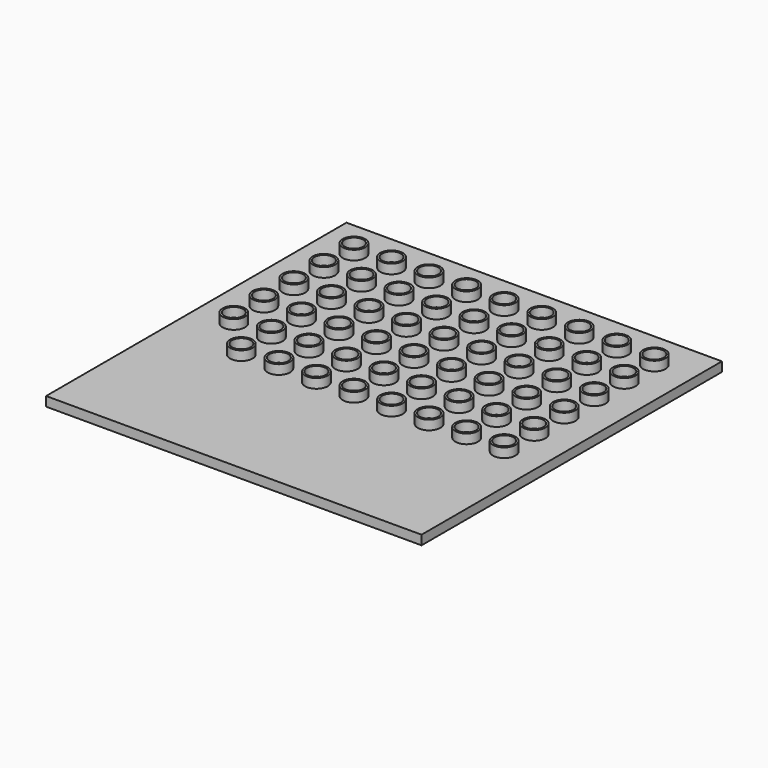
from build123d import *

# Parameters (mm, degrees)
F0_W     = 508
F0_H     = 508
F1_DEPTH = 12.7
F2_R     = 15.24
F2_R_2   = 12.7
F3_DEPTH = 25.4


with BuildPart() as f1:
    # F0 (on Top) → F1 (new body)
    with BuildSketch(Plane.XY):
        Rectangle(F0_W, F0_H)
    extrude(amount=F1_DEPTH)

    # F2 (on Top) → F3 (join)
    with BuildSketch(Plane.XY):
        with Locations((-152.4, 203.2)):
            Circle(F2_R)
        with Locations((-152.4, 203.2)):
            Circle(F2_R_2, mode=Mode.SUBTRACT)
        with Locations((-203.2, 203.2)):
            Circle(F2_R)
        with Locations((-203.2, 203.2)):
            Circle(F2_R_2, mode=Mode.SUBTRACT)
        with Locations((-101.6, 203.2)):
            Circle(F2_R)
        with Locations((-101.6, 203.2)):
            Circle(F2_R_2, mode=Mode.SUBTRACT)
        with Locations((-101.6, 152.4)):
            Circle(F2_R)
        with Locations((-101.6, 152.4)):
            Circle(F2_R_2, mode=Mode.SUBTRACT)
        with Locations((-152.4, 152.4)):
            Circle(F2_R)
        with Locations((-152.4, 152.4)):
            Circle(F2_R_2, mode=Mode.SUBTRACT)
        with Locations((-203.2, 152.4)):
            Circle(F2_R)
        with Locations((-203.2, 152.4)):
            Circle(F2_R_2, mode=Mode.SUBTRACT)
        with Locations((-50.8, 203.2)):
            Circle(F2_R)
        with Locations((-50.8, 203.2)):
            Circle(F2_R_2, mode=Mode.SUBTRACT)
        with Locations((0, 203.2)):
            Circle(F2_R)
        with Locations((0, 203.2)):
            Circle(F2_R_2, mode=Mode.SUBTRACT)
        with Locations((50.8, 203.2)):
            Circle(F2_R)
        with Locations((50.8, 203.2)):
            Circle(F2_R_2, mode=Mode.SUBTRACT)
        with Locations((101.6, 203.2)):
            Circle(F2_R)
        with Locations((101.6, 203.2)):
            Circle(F2_R_2, mode=Mode.SUBTRACT)
        with Locations((152.4, 203.2)):
            Circle(F2_R)
        with Locations((152.4, 203.2)):
            Circle(F2_R_2, mode=Mode.SUBTRACT)
        with Locations((203.2, 203.2)):
            Circle(F2_R)
        with Locations((203.2, 203.2)):
            Circle(F2_R_2, mode=Mode.SUBTRACT)
        with Locations((203.2, 152.4)):
            Circle(F2_R)
        with Locations((203.2, 152.4)):
            Circle(F2_R_2, mode=Mode.SUBTRACT)
        with Locations((152.4, 152.4)):
            Circle(F2_R)
        with Locations((152.4, 152.4)):
            Circle(F2_R_2, mode=Mode.SUBTRACT)
        with Locations((101.6, 152.4)):
            Circle(F2_R)
        with Locations((101.6, 152.4)):
            Circle(F2_R_2, mode=Mode.SUBTRACT)
        with Locations((50.8, 152.4)):
            Circle(F2_R)
        with Locations((50.8, 152.4)):
            Circle(F2_R_2, mode=Mode.SUBTRACT)
        with Locations((0, 152.4)):
            Circle(F2_R)
        with Locations((0, 152.4)):
            Circle(F2_R_2, mode=Mode.SUBTRACT)
        with Locations((-50.8, 152.4)):
            Circle(F2_R)
        with Locations((-50.8, 152.4)):
            Circle(F2_R_2, mode=Mode.SUBTRACT)
        with Locations((-203.2, 101.6)):
            Circle(F2_R)
        with Locations((-203.2, 101.6)):
            Circle(F2_R_2, mode=Mode.SUBTRACT)
        with Locations((-152.4, 101.6)):
            Circle(F2_R)
        with Locations((-152.4, 101.6)):
            Circle(F2_R_2, mode=Mode.SUBTRACT)
        with Locations((-101.6, 101.6)):
            Circle(F2_R)
        with Locations((-101.6, 101.6)):
            Circle(F2_R_2, mode=Mode.SUBTRACT)
        with Locations((-50.8, 101.6)):
            Circle(F2_R)
        with Locations((-50.8, 101.6)):
            Circle(F2_R_2, mode=Mode.SUBTRACT)
        with Locations((0, 101.6)):
            Circle(F2_R)
        with Locations((0, 101.6)):
            Circle(F2_R_2, mode=Mode.SUBTRACT)
        with Locations((50.8, 101.6)):
            Circle(F2_R)
        with Locations((50.8, 101.6)):
            Circle(F2_R_2, mode=Mode.SUBTRACT)
        with Locations((101.6, 101.6)):
            Circle(F2_R)
        with Locations((101.6, 101.6)):
            Circle(F2_R_2, mode=Mode.SUBTRACT)
        with Locations((152.4, 101.6)):
            Circle(F2_R)
        with Locations((152.4, 101.6)):
            Circle(F2_R_2, mode=Mode.SUBTRACT)
        with Locations((203.2, 101.6)):
            Circle(F2_R)
        with Locations((203.2, 101.6)):
            Circle(F2_R_2, mode=Mode.SUBTRACT)
        with Locations((203.2, 50.8)):
            Circle(F2_R)
        with Locations((203.2, 50.8)):
            Circle(F2_R_2, mode=Mode.SUBTRACT)
        with Locations((152.4, 50.8)):
            Circle(F2_R)
        with Locations((152.4, 50.8)):
            Circle(F2_R_2, mode=Mode.SUBTRACT)
        with Locations((101.6, 50.8)):
            Circle(F2_R)
        with Locations((101.6, 50.8)):
            Circle(F2_R_2, mode=Mode.SUBTRACT)
        with Locations((50.8, 50.8)):
            Circle(F2_R)
        with Locations((50.8, 50.8)):
            Circle(F2_R_2, mode=Mode.SUBTRACT)
        with Locations((0, 50.8)):
            Circle(F2_R)
        with Locations((0, 50.8)):
            Circle(F2_R_2, mode=Mode.SUBTRACT)
        with Locations((-50.8, 50.8)):
            Circle(F2_R)
        with Locations((-50.8, 50.8)):
            Circle(F2_R_2, mode=Mode.SUBTRACT)
        with Locations((-101.6, 50.8)):
            Circle(F2_R)
        with Locations((-101.6, 50.8)):
            Circle(F2_R_2, mode=Mode.SUBTRACT)
        with Locations((-152.4, 50.8)):
            Circle(F2_R)
        with Locations((-152.4, 50.8)):
            Circle(F2_R_2, mode=Mode.SUBTRACT)
        with Locations((-203.2, 50.8)):
            Circle(F2_R)
        with Locations((-203.2, 50.8)):
            Circle(F2_R_2, mode=Mode.SUBTRACT)
        with Locations((-203.2, 0)):
            Circle(F2_R)
        with Locations((-203.2, 0)):
            Circle(F2_R_2, mode=Mode.SUBTRACT)
        with Locations((-152.4, 0)):
            Circle(F2_R)
        with Locations((-152.4, 0)):
            Circle(F2_R_2, mode=Mode.SUBTRACT)
        with Locations((-101.6, 0)):
            Circle(F2_R)
        with Locations((-101.6, 0)):
            Circle(F2_R_2, mode=Mode.SUBTRACT)
        with Locations((-50.8, 0)):
            Circle(F2_R)
        with Locations((-50.8, 0)):
            Circle(F2_R_2, mode=Mode.SUBTRACT)
        Circle(F2_R)
        Circle(F2_R_2, mode=Mode.SUBTRACT)
        with Locations((50.8, 0)):
            Circle(F2_R)
        with Locations((50.8, 0)):
            Circle(F2_R_2, mode=Mode.SUBTRACT)
        with Locations((101.6, 0)):
            Circle(F2_R)
        with Locations((101.6, 0)):
            Circle(F2_R_2, mode=Mode.SUBTRACT)
        with Locations((152.4, 0)):
            Circle(F2_R)
        with Locations((152.4, 0)):
            Circle(F2_R_2, mode=Mode.SUBTRACT)
        with Locations((203.2, 0)):
            Circle(F2_R)
        with Locations((203.2, 0)):
            Circle(F2_R_2, mode=Mode.SUBTRACT)
        with Locations((203.2, -50.8)):
            Circle(F2_R)
        with Locations((203.2, -50.8)):
            Circle(F2_R_2, mode=Mode.SUBTRACT)
        with Locations((152.4, -50.8)):
            Circle(F2_R)
        with Locations((152.4, -50.8)):
            Circle(F2_R_2, mode=Mode.SUBTRACT)
        with Locations((101.6, -50.8)):
            Circle(F2_R)
        with Locations((101.6, -50.8)):
            Circle(F2_R_2, mode=Mode.SUBTRACT)
        with Locations((50.8, -50.8)):
            Circle(F2_R)
        with Locations((50.8, -50.8)):
            Circle(F2_R_2, mode=Mode.SUBTRACT)
        with Locations((0, -50.8)):
            Circle(F2_R)
        with Locations((0, -50.8)):
            Circle(F2_R_2, mode=Mode.SUBTRACT)
        with Locations((-50.8, -50.8)):
            Circle(F2_R)
        with Locations((-50.8, -50.8)):
            Circle(F2_R_2, mode=Mode.SUBTRACT)
        with Locations((-101.6, -50.8)):
            Circle(F2_R)
        with Locations((-101.6, -50.8)):
            Circle(F2_R_2, mode=Mode.SUBTRACT)
        with Locations((-152.4, -50.8)):
            Circle(F2_R)
        with Locations((-152.4, -50.8)):
            Circle(F2_R_2, mode=Mode.SUBTRACT)
    extrude(amount=F3_DEPTH)


solid = f1.part
